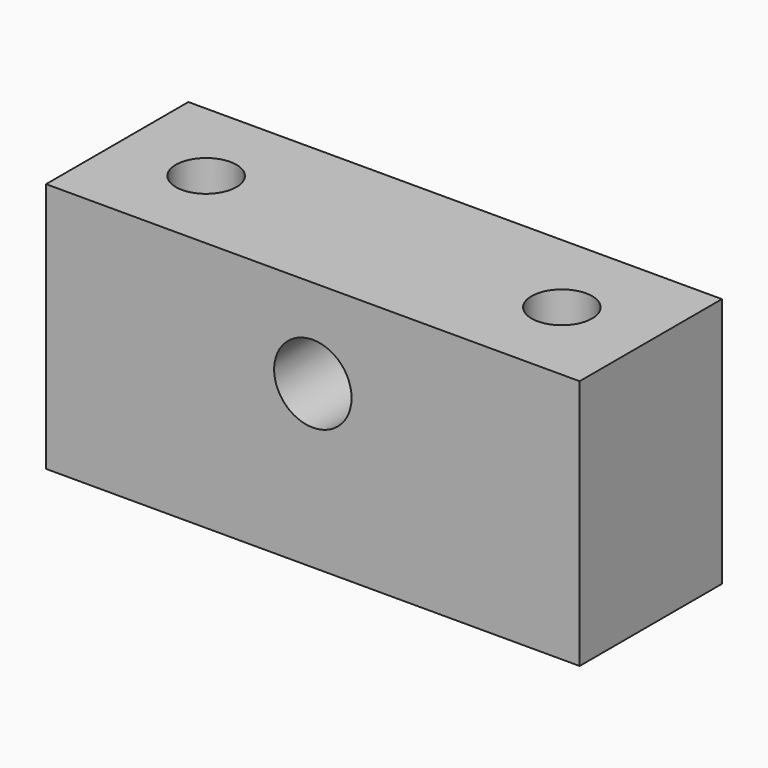
from build123d import *

# Parameters (mm, degrees)
F0_W     = 23.8125
F0_H     = 7.9375
F0_R     = 1.35255
F1_DEPTH = 11.189043
F2_R     = 1.7272
F3_DEPTH = 7.9375


with BuildPart() as f1:
    # F0 (on Top) → F1 (new body)
    with BuildSketch(Plane.XY):
        with Locations((11.90625, 3.96875)):
            Rectangle(F0_W, F0_H)
        with Locations((3.96875, 3.96875)):
            Circle(F0_R, mode=Mode.SUBTRACT)
        with Locations((19.84375, 3.96875)):
            Circle(F0_R, mode=Mode.SUBTRACT)
    extrude(amount=F1_DEPTH)

    # F2 (on face) → F3 (cut, through all)
    with BuildSketch(Plane.XZ):
        with Locations((11.90625, 7.220293)):
            Circle(F2_R)
    extrude(amount=-F3_DEPTH, mode=Mode.SUBTRACT)


solid = f1.part
